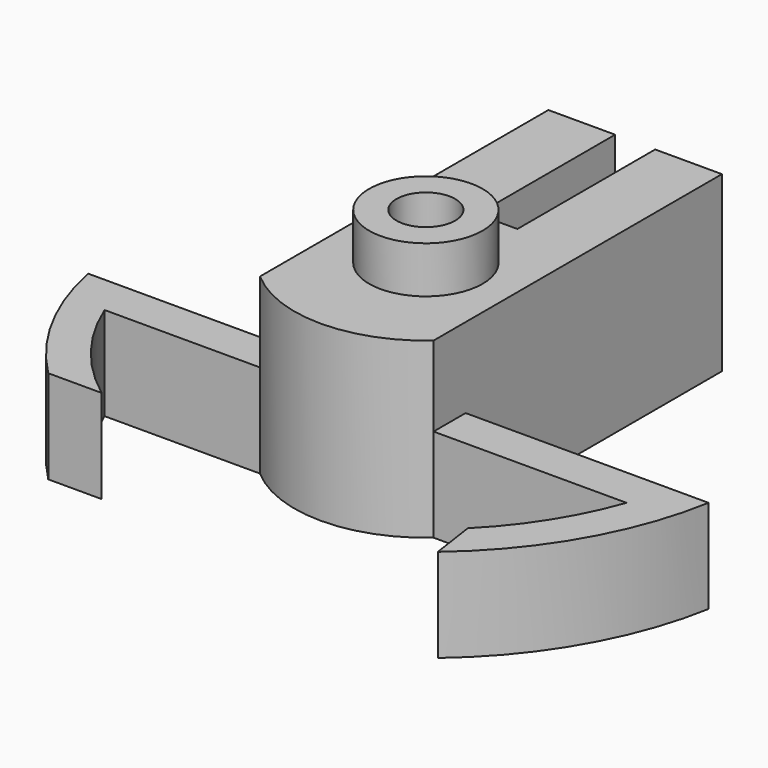
from build123d import *

# Parameters (mm, degrees)
F0_W     = 13
F0_H     = 24
F0_H_2   = 3
F2_DEPTH = 13
F1_R     = 2.2
F3_DEPTH = 13
F5_DEPTH = 12.9
F6_DEPTH = 7
F1_R_2   = 4.25
F7_DEPTH = 16.5


with BuildPart() as f2:
    # F0 (on Top) → F2 (new body)
    with BuildSketch(Plane.XY):
        with Locations((0, 7.5963802942)):
            Rectangle(F0_W, F0_H)
        with Locations((0, -5.9036197058)):
            Rectangle(F0_W, F0_H_2)
        with BuildLine():
            Line((6.5, -7.4036197058), (-6.5, -7.4036197058))
            ThreePointArc((-6.5, -7.4036197058), (0, -9.8520852995), (6.5, -7.4036197058))
        make_face()
    extrude(amount=F2_DEPTH)

    # F1 (on Top) → F3 (cut, through all)
    with BuildSketch(Plane.XY):
        Circle(F1_R)
    extrude(amount=F3_DEPTH, mode=Mode.SUBTRACT)

    # F4 (on face) → F5 (cut)
    with BuildSketch(Plane(origin=(0, 19.5963802942, 0), x_dir=(-1, 0, 0), z_dir=(0, 1, 0))):
        with BuildLine():
            ThreePointArc((-1.5, 10.4764934301), (-2.4173849507, 3.0044671365), (4.25, 6.5))
            ThreePointArc((4.25, 6.5), (3.4955328635, 8.9173849507), (1.5, 10.4764934301))
            ThreePointArc((1.5, 10.4764934301), (0, 10.75), (-1.5, 10.4764934301))
        make_face()
        with BuildLine():
            ThreePointArc((-1.5, 10.4764934301), (0, 10.75), (1.5, 10.4764934301))
            Line((1.5, 10.4764934301), (1.5, 13))
            Line((1.5, 13), (-1.5, 13))
            Line((-1.5, 13), (-1.5, 10.4764934301))
        make_face()
    extrude(amount=-F5_DEPTH, mode=Mode.SUBTRACT)

    # F0 (on Top) → F6 (join)
    with BuildSketch(Plane.XY):
        with BuildLine():
            Line((24.700689028, -4.4036197058), (6.5, -4.4036197058))
            Line((6.5, -4.4036197058), (6.5, -7.4036197058))
            Line((6.5, -7.4036197058), (20.9526508047, -7.4036197058))
            ThreePointArc((20.9526508047, -7.4036197058), (18.798000482, -11.8516808248), (15.7134840264, -15.7134840264))
            Line((15.7134840264, -15.7134840264), (16.2143083706, -19.1471175125))
            ThreePointArc((16.2143083706, -19.1471175125), (21.7451588848, -12.5165478486), (24.700689028, -4.4036197058))
        make_face()
        with BuildLine():
            Line((-6.5, -7.4036197058), (-6.5, -4.4036197058))
            Line((-6.5, -4.4036197058), (-21.7815356203, -4.4036197058))
            ThreePointArc((-21.7815356203, -4.4036197058), (-19.581812539, -10.5061780958), (-15.7134840264, -15.7134840264))
            Line((-15.7134840264, -15.7134840264), (-11.7134840264, -15.7134840264))
            ThreePointArc((-11.7134840264, -15.7134840264), (-15.4974944993, -11.9977894851), (-18.1467821813, -7.4036197058))
            Line((-18.1467821813, -7.4036197058), (-6.5, -7.4036197058))
        make_face()
    extrude(amount=F6_DEPTH)

    # F1 (on Top) → F7 (join)
    with BuildSketch(Plane.XY):
        Circle(F1_R_2)
        Circle(F1_R, mode=Mode.SUBTRACT)
    extrude(amount=F7_DEPTH)


solid = f2.part
